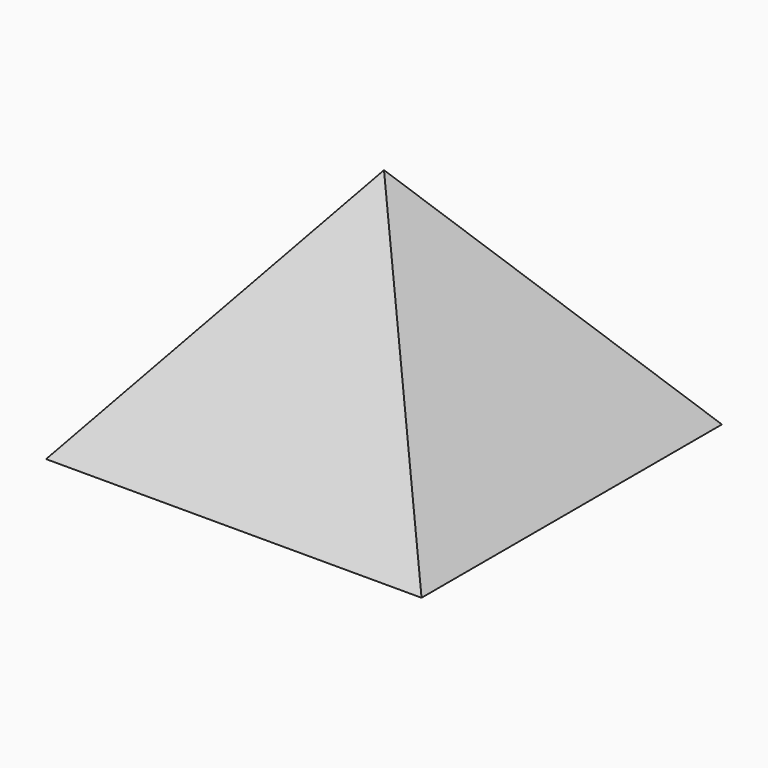
from build123d import *

# Parameters (mm, degrees)
BOX016_W     = 275
BOX016_H     = 275
BOX016_DEPTH = 59
SKETCH050_W  = 102
SKETCH050_H  = 102
SKETCH051_W  = 86
SKETCH051_H  = 86
BOX017_W     = 275
BOX017_H     = 275
BOX017_DEPTH = 46
SKETCH044_W  = 275
SKETCH044_H  = 275
SKETCH045_W  = 0.1
SKETCH045_H  = 0.1
SKETCH038_W  = 275
SKETCH038_H  = 275
SKETCH039_W  = 0.1
SKETCH039_H  = 0.1
BOX010_W     = 275
BOX010_H     = 275
BOX010_DEPTH = 70


with BuildPart() as layer0keep007:
    # Box016 → Box016 (new body)
    with BuildSketch(Plane.XY.offset(48)):
        with Locations((137.5, 137.5)):
            Rectangle(BOX016_W, BOX016_H)
    extrude(amount=BOX016_DEPTH)


with BuildPart() as obj1:
    # Sketch050 → Loft017 section 0
    with BuildSketch(Plane.XY.offset(107)):
        with Locations((137.5, 137.5)):
            Rectangle(SKETCH050_W, SKETCH050_H)
    # Sketch051 → Loft017 section 1
    with BuildSketch(Plane.XY.offset(117)):
        with Locations((137.5, 137.5)):
            Rectangle(SKETCH051_W, SKETCH051_H)
    loft()

    # Fusion021: union layer0Keep007
    add(layer0keep007.part)


with BuildPart() as obj1_1:
    # Fusion021 placement: moved
    add(obj1.part.moved(Location((0, 0, 1))))


with BuildPart() as layer2cut:
    # Box017 → Box017 (new body)
    with BuildSketch(Plane.XY.offset(123)):
        with Locations((137.5, 137.5)):
            Rectangle(BOX017_W, BOX017_H)
    extrude(amount=BOX017_DEPTH)


with BuildPart() as fusion022:
    # Sketch044 → Loft014 section 0
    with BuildSketch(Plane.XY):
        with Locations((137.5, 137.5)):
            Rectangle(SKETCH044_W, SKETCH044_H)
    # Sketch045 → Loft014 section 1
    with BuildSketch(Plane.XY.offset(175.1)):
        with Locations((137.5, 137.5)):
            Rectangle(SKETCH045_W, SKETCH045_H)
    loft()


with BuildPart() as fusion022_1:
    # Loft014 placement: moved
    add(fusion022.part.moved(Location((0, 0, -6))))

    # Common011: intersect layer2Cut
    add(layer2cut.part, mode=Mode.INTERSECT)

    # Fusion022: union obj1
    add(obj1_1.part)


with BuildPart() as obj2:
    # Sketch038 → Loft011 section 0
    with BuildSketch(Plane.XY):
        with Locations((137.5, 137.5)):
            Rectangle(SKETCH038_W, SKETCH038_H)
    # Sketch039 → Loft011 section 1
    with BuildSketch(Plane.XY.offset(175.1)):
        with Locations((137.5, 137.5)):
            Rectangle(SKETCH039_W, SKETCH039_H)
    loft()


with BuildPart() as layer2:
    # Box010 → Box010 (new body)
    with BuildSketch(Plane.XY.offset(108)):
        with Locations((137.5, 137.5)):
            Rectangle(BOX010_W, BOX010_H)
    extrude(amount=BOX010_DEPTH)

    # Common010: intersect obj2
    add(obj2.part, mode=Mode.INTERSECT)

    # Cut004: cut Fusion022
    add(fusion022_1.part, mode=Mode.SUBTRACT)


solid = layer2.part
